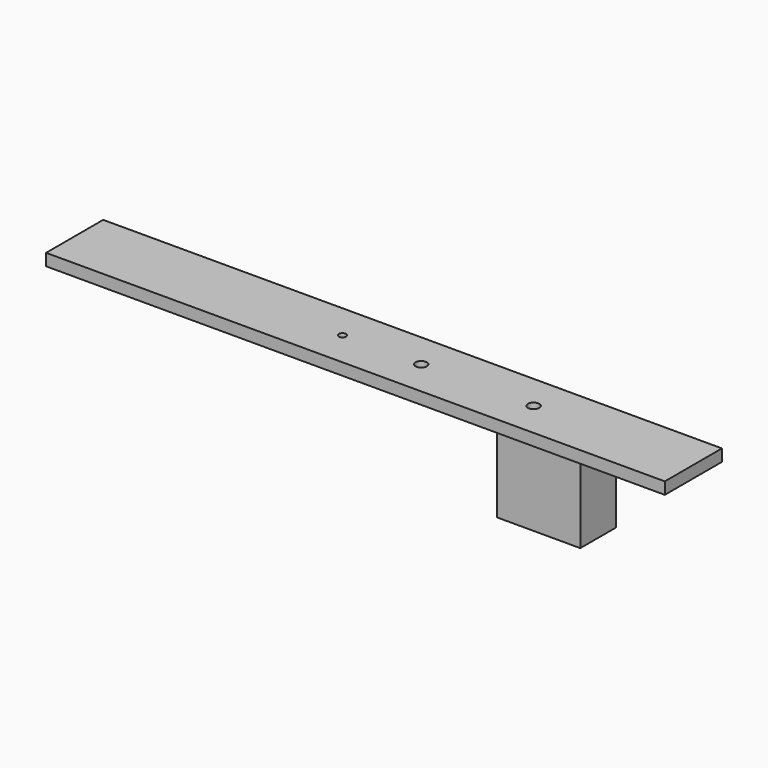
from build123d import *

# Parameters (mm, degrees)
F0_W     = 165.1
F0_H     = 19.05
F1_DEPTH = 3.175
F2_R     = 1.4986
F3_DEPTH = 25.4
F2_R_2   = 0.9779
F4_DEPTH = 25.4
F5_DEPTH = 25.4
F2_W     = 22.225
F2_H     = 11.938
F6_DEPTH = 22.225


with BuildPart() as f1:
    # F0 (on Top) → F1 (new body)
    with BuildSketch(Plane.XY):
        with Locations((-49.068541, -18.8957)):
            Rectangle(F0_W, F0_H)
    extrude(amount=F1_DEPTH)

    # F2 (on face) → F3 (cut)
    with BuildSketch(Plane(origin=(0, 0, 0), x_dir=(1, 0, 0), z_dir=(0, 0, -1))):
        with Locations((-39.137141, 18.8957)):
            Circle(F2_R)
    extrude(amount=-F3_DEPTH, mode=Mode.SUBTRACT)

    # F2 (on face) → F4 (cut)
    with BuildSketch(Plane(origin=(0, 0, 0), x_dir=(1, 0, 0), z_dir=(0, 0, -1))):
        with Locations((-60.137141, 18.8957)):
            Circle(F2_R_2)
    extrude(amount=-F4_DEPTH, mode=Mode.SUBTRACT)

    # F2 (on face) → F5 (cut)
    with BuildSketch(Plane(origin=(0, 0, 0), x_dir=(1, 0, 0), z_dir=(0, 0, -1))):
        with Locations((-9.143541, 18.8957)):
            Circle(F2_R)
    extrude(amount=-F5_DEPTH, mode=Mode.SUBTRACT)

    # F2 (on face) → F6 (join)
    with BuildSketch(Plane(origin=(0, 0, 0), x_dir=(1, 0, 0), z_dir=(0, 0, -1))):
        with Locations((-3.031041, 18.8957)):
            Rectangle(F2_W, F2_H)
        with Locations((-9.143541, 18.8957)):
            Circle(F2_R, mode=Mode.SUBTRACT)
    extrude(amount=F6_DEPTH)


solid = f1.part
